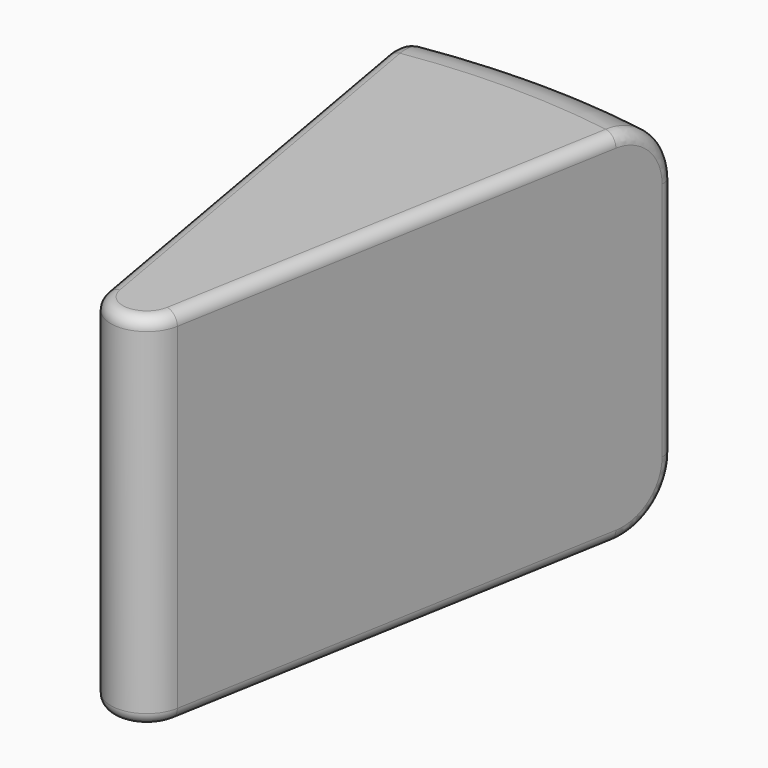
from build123d import *

# Parameters (mm, degrees)
F1_ANGLE_BACK = 10
F1_ANGLE      = 20
F2_R          = 3
F3_R          = 7.5
F4_DEPTH      = 13
F5_R          = 1


with BuildPart() as f1:
    # F0 (on Right) → F1 (revolve)
    with BuildSketch(Plane.YZ, mode=Mode.PRIVATE) as f1_sk:
        with BuildLine():
            ThreePointArc((30, 10), (28.5355339059, 13.5355339059), (25, 15))
            Line((25, 15), (-30, 15))
            Line((-30, 15), (-30, -15))
            Line((-30, -15), (25, -15))
            ThreePointArc((25, -15), (28.5355339059, -13.5355339059), (30, -10))
            Line((30, -10), (30, 10))
        make_face()
    revolve(f1_sk.sketch.rotate(Axis((0, -30, 0), (0, 0, -1)), -F1_ANGLE_BACK), axis=Axis((0, -30, 0), (0, 0, -1)), revolution_arc=F1_ANGLE)

    # F2
    f2_edges = [f1.edges().sort_by_distance(p)[0] for p in [
        (0, -30, 0),
    ]]
    fillet(f2_edges, radius=F2_R)

    # F3 (on face) → F4 (cut)
    with BuildSketch(Plane(origin=(-5.1303021499, -0.9046106882, 0), x_dir=(0.1736481777, -0.984807753, 0), z_dir=(-0.984807753, -0.1736481777, 0))):
        with Locations((-19, 0)):
            Circle(F3_R)
    extrude(amount=-F4_DEPTH, mode=Mode.SUBTRACT)

    # F5
    f5_edges = [f1.edges().sort_by_distance(p)[0] for p in [
        (10.164589, 27.646248, -13.535534),
        (3.070522, 27.450221, 0),
    ]]
    fillet(f5_edges, radius=F5_R)


solid = f1.part
